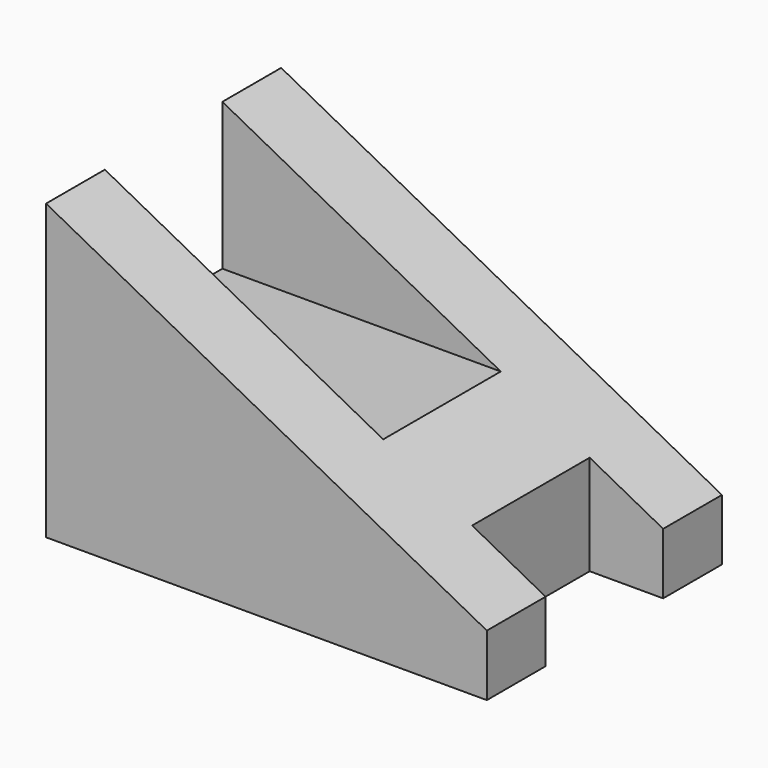
from build123d import *

# Parameters (mm, degrees)
F1_DEPTH = 20
F2_W     = 10
F2_H     = 10
F3_DEPTH = 30.001
F4_W     = 5
F4_H     = 10
F5_DEPTH = 25


with BuildPart() as f1:
    # F0 (on Front) → F1 (new body)
    with BuildSketch(Plane.XZ):
        Polygon((0, 4.166667), (-30, 20), (-30, 0), (0, 0), align=None)
    extrude(amount=F1_DEPTH)

    # F2 (on Right) → F3 (cut, through all)
    with BuildSketch(Plane.YZ):
        with Locations((-10, 15)):
            Rectangle(F2_W, F2_H)
    extrude(amount=-F3_DEPTH, mode=Mode.SUBTRACT)

    # F4 (on face) → F5 (cut)
    with BuildSketch(Plane(origin=(0, 0, 0), x_dir=(1, 0, 0), z_dir=(0, 0, -1))):
        with Locations((-2.5, 10)):
            Rectangle(F4_W, F4_H)
    extrude(amount=-F5_DEPTH, mode=Mode.SUBTRACT)


solid = f1.part
